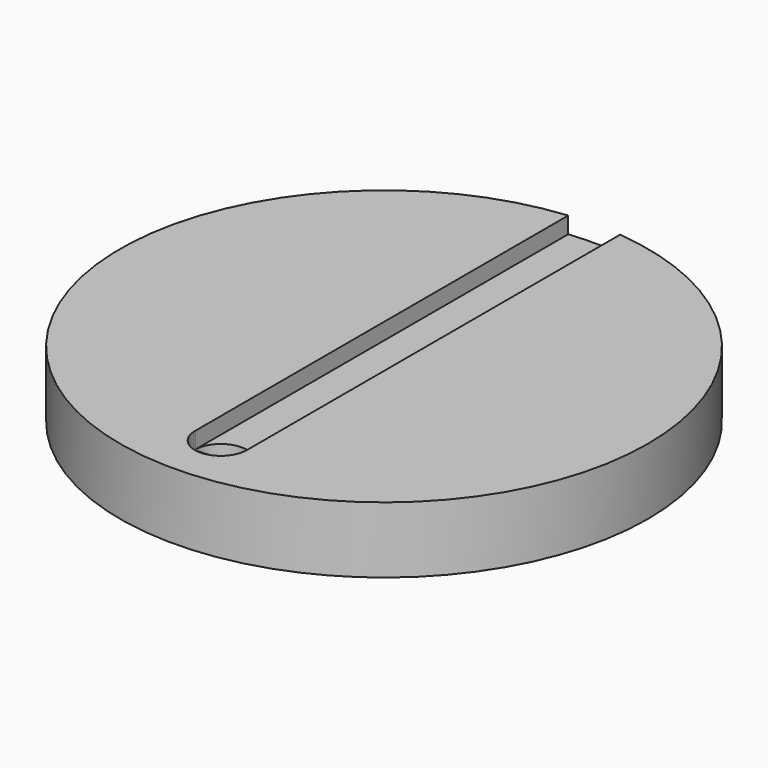
from build123d import *

# Parameters (mm, degrees)
F0_R     = 75.953987
F1_DEPTH = 9.525
F3_DEPTH = 4.7498
F4_R     = 7.466326
F5_DEPTH = 9.525


with BuildPart() as f1:
    # F0 (on Top) → F1 (new body, symmetric)
    with BuildSketch(Plane.XY):
        Circle(F0_R)
    extrude(amount=F1_DEPTH, both=True)

    # F2 (on face) → F3 (cut)
    with BuildSketch(Plane.XY.offset(9.525)):
        with BuildLine():
            Line((-7.454365, -58.986614), (-7.454365, -58.437368))
            ThreePointArc((-7.454365, -58.437368), (-7.459417, -58.711991), (-7.454365, -58.986614))
        make_face()
        with BuildLine():
            Line((-7.454365, 75.587305), (-7.454365, -58.437368))
            Line((-7.454365, -58.437368), (-7.454365, -58.986614))
            ThreePointArc((-7.454365, -58.986614), (0.144244, -66.177054), (7.473236, -58.711991))
            Line((7.473236, -58.711991), (7.473236, 75.585441))
            ThreePointArc((7.473236, 75.585441), (0.009481, 75.953987), (-7.454365, 75.587305))
        make_face()
    extrude(amount=-F3_DEPTH, mode=Mode.SUBTRACT)

    # F4 (on face) → F5 (cut)
    with BuildSketch(Plane.XY.offset(9.525)):
        with Locations((0.006909, -58.711991)):
            Circle(F4_R)
    extrude(amount=-F5_DEPTH, mode=Mode.SUBTRACT)


solid = f1.part
